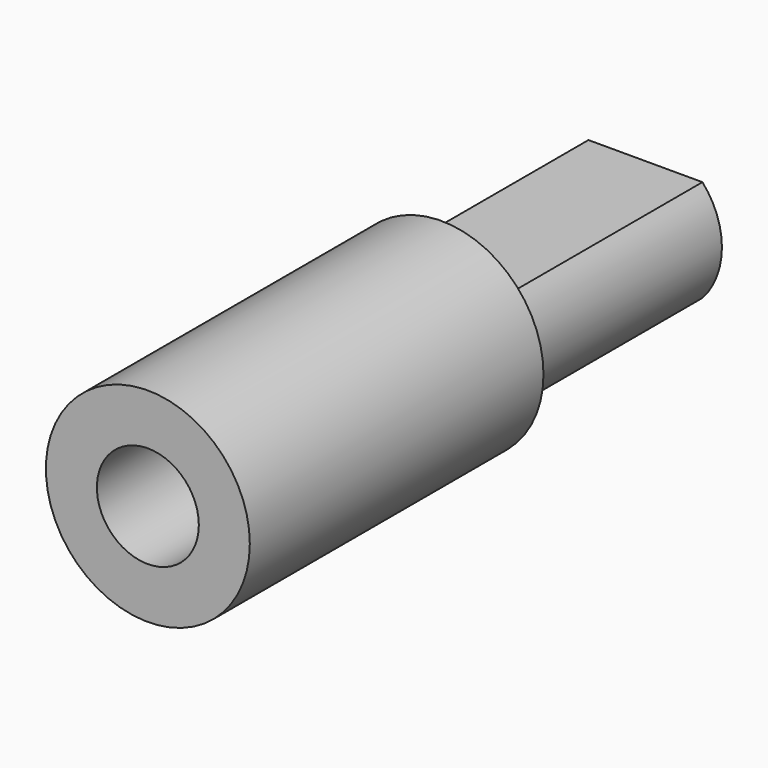
from build123d import *

# Parameters (mm, degrees)
F1_DEPTH = 7.9375
F2_R     = 3.175
F3_DEPTH = 11.43
F4_R     = 1.5875
F5_DEPTH = 10.16


with BuildPart() as f1:
    # F0 (on Front) → F1 (new body)
    with BuildSketch(Plane.XZ):
        with BuildLine():
            Line((-1.7748789571, 0), (1.7748789571, 0))
            ThreePointArc((1.7748789571, 0), (2.38125, 1.5875), (1.7748789571, 3.175))
            Line((1.7748789571, 3.175), (-1.7748789571, 3.175))
            ThreePointArc((-1.7748789571, 3.175), (-2.38125, 1.5875), (-1.7748789571, 0))
        make_face()
    extrude(amount=-F1_DEPTH)

    # F2 (on face) → F3 (join)
    with BuildSketch(Plane.XZ):
        with Locations((0, 1.5875)):
            Circle(F2_R)
        with BuildLine():
            Line((-1.7748789571, 3.175), (1.7748789571, 3.175))
            ThreePointArc((1.7748789571, 3.175), (2.38125, 1.5875), (1.7748789571, 0))
            Line((1.7748789571, 0), (-1.7748789571, 0))
            ThreePointArc((-1.7748789571, 0), (-2.38125, 1.5875), (-1.7748789571, 3.175))
        make_face(mode=Mode.SUBTRACT)
        with BuildLine():
            ThreePointArc((1.7748789571, 0), (2.38125, 1.5875), (1.7748789571, 3.175))
            Line((1.7748789571, 3.175), (-1.7748789571, 3.175))
            ThreePointArc((-1.7748789571, 3.175), (-2.38125, 1.5875), (-1.7748789571, 0))
            Line((-1.7748789571, 0), (1.7748789571, 0))
        make_face()
    extrude(amount=F3_DEPTH)

    # F4 (on face) → F5 (cut)
    with BuildSketch(Plane.XZ.offset(11.43)):
        with Locations((0, 1.5875)):
            Circle(F4_R)
    extrude(amount=-F5_DEPTH, mode=Mode.SUBTRACT)


solid = f1.part
